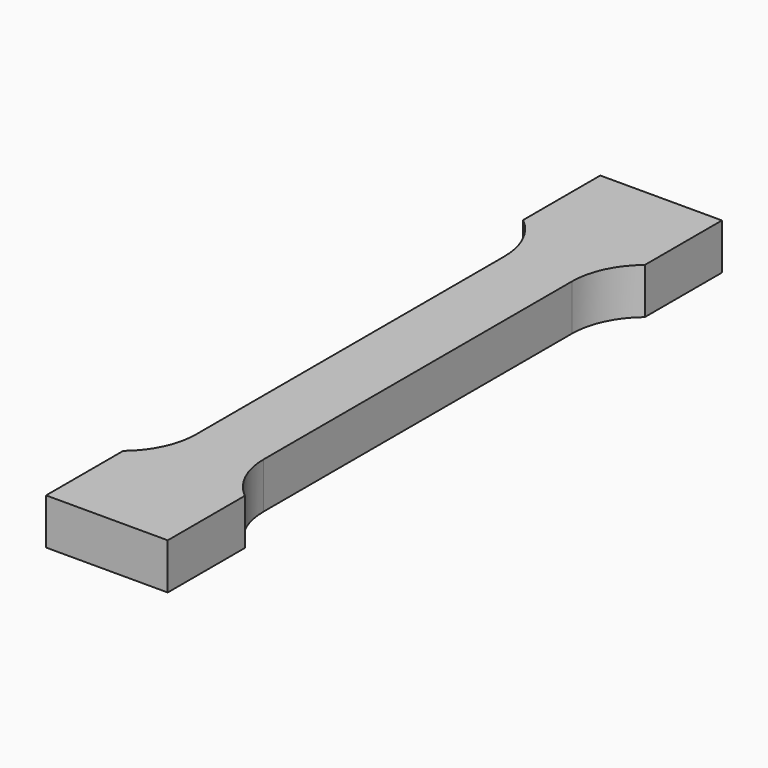
from build123d import *

# Parameters (mm, degrees)
F1_DEPTH = 3.4


with BuildPart() as f1:
    # F0 (on Top) → F1 (new body, symmetric)
    with BuildSketch(Plane.XY):
        with BuildLine():
            ThreePointArc((21.6802075356, 81.949796047), (24.6300819067, 78.1549304326), (25.6802075356, 73.4645146728))
            Line((25.6802075356, 73.4645146728), (25.6802075356, 16.4645146728))
            ThreePointArc((25.6802075356, 16.4645146728), (24.6300819067, 11.7740989129), (21.6802075356, 7.9792332985))
            Line((21.6802075356, 7.9792332985), (21.6802075356, -6.2854853272))
            Line((21.6802075356, -6.2854853272), (39.6802075356, -6.2854853272))
            Line((39.6802075356, -6.2854853272), (39.6802075356, 7.9792332985))
            ThreePointArc((39.6802075356, 7.9792332985), (36.7303331646, 11.7740989129), (35.6802075356, 16.4645146728))
            Line((35.6802075356, 16.4645146728), (35.6802075356, 73.4645146728))
            ThreePointArc((35.6802075356, 73.4645146728), (36.7303331646, 78.1549304326), (39.6802075356, 81.949796047))
            Line((39.6802075356, 81.949796047), (39.6802075356, 96.2145146728))
            Line((39.6802075356, 96.2145146728), (21.6802075356, 96.2145146728))
            Line((21.6802075356, 96.2145146728), (21.6802075356, 81.949796047))
        make_face()
    extrude(amount=F1_DEPTH, both=True)


solid = f1.part
